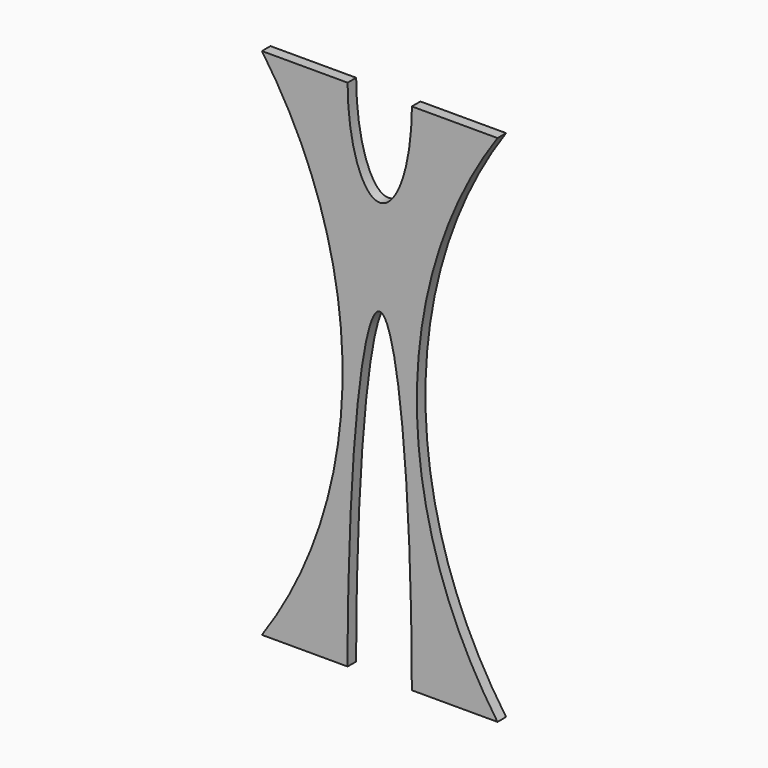
from build123d import *

# Parameters (mm, degrees)
F1_DEPTH = 12.7


with BuildPart() as f1:
    # F0 (on Front) → F1 (new body)
    with BuildSketch(Plane.XZ):
        with BuildLine():
            add(Edge.make_bspline(
                [(0, 0), (0, 383.0003180913), (-38.1, 383.0003180913)],
                knots=[4.7123889804, 4.7123889804, 4.7123889804, 6.2831853072, 6.2831853072, 6.2831853072], degree=2, weights=[1, 0.7071067812, 1]))
            Line((0, 0), (101.6, 0))
            ThreePointArc((101.6, 0), (5.9356736662, 304.8), (101.6, 609.6))
            Line((101.6, 609.6), (0, 609.6))
            add(Edge.make_bspline(
                [(-38.1, 496.7566511893), (0, 496.7566511893), (0, 609.6)],
                knots=[3.1415926536, 3.1415926536, 3.1415926536, 4.7123889804, 4.7123889804, 4.7123889804], degree=2, weights=[1, 0.7071067812, 1]))
            add(Edge.make_bspline(
                [(-76.2, 609.6), (-76.2, 496.7566511893), (-38.1, 496.7566511893)],
                knots=[4.7123889804, 4.7123889804, 4.7123889804, 6.2831853072, 6.2831853072, 6.2831853072], degree=2, weights=[1, 0.7071067812, 1]))
            Line((-76.2, 609.6), (-177.8, 609.6))
            ThreePointArc((-177.8, 609.6), (-82.1356736662, 304.8), (-177.8, 0))
            Line((-177.8, 0), (-76.2, 0))
            add(Edge.make_bspline(
                [(-38.1, 383.0003180913), (-76.2, 383.0003180913), (-76.2, 0)],
                knots=[3.1415926536, 3.1415926536, 3.1415926536, 4.7123889804, 4.7123889804, 4.7123889804], degree=2, weights=[1, 0.7071067812, 1]))
        make_face()
    extrude(amount=F1_DEPTH)


solid = f1.part
